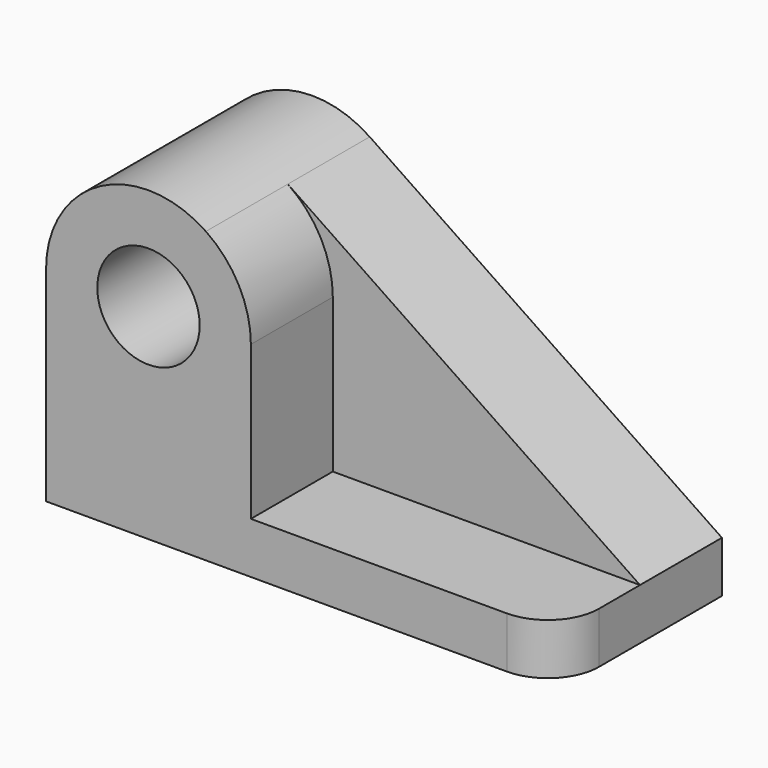
from build123d import *

# Parameters (mm, degrees)
F0_R     = 12.7
F1_DEPTH = 25.4
F2_R     = 12.7
F3_DEPTH = 25.4
F4_R     = 12.7


with BuildPart() as f1:
    # F0 (on Front) → F1 (new body)
    with BuildSketch(Plane.XZ):
        with BuildLine():
            Line((47.844176, -69.251424), (-39.51795, -10.117096))
            ThreePointArc((-39.51795, -10.117096), (-65.662083, -8.714825), (-79.155824, -31.151424))
            Line((-79.155824, -31.151424), (-79.155824, -81.951424))
            Line((-79.155824, -81.951424), (47.844176, -81.951424))
            Line((47.844176, -81.951424), (47.844176, -69.251424))
        make_face()
        with Locations((-53.755824, -31.151424)):
            Circle(F0_R, mode=Mode.SUBTRACT)
    extrude(amount=F1_DEPTH)

    # F2 (on face) → F3 (join)
    with BuildSketch(Plane.XZ.offset(25.4)):
        with BuildLine():
            Line((-28.355824, -69.251424), (-28.355824, -31.151424))
            ThreePointArc((-28.355824, -31.151424), (-31.319224, -19.245165), (-39.51795, -10.117096))
            ThreePointArc((-39.51795, -10.117096), (-65.662083, -8.714825), (-79.155824, -31.151424))
            Line((-79.155824, -31.151424), (-79.155824, -69.251424))
            Line((-79.155824, -69.251424), (-79.155824, -81.951424))
            Line((-79.155824, -81.951424), (47.844176, -81.951424))
            Line((47.844176, -81.951424), (47.844176, -69.251424))
            Line((47.844176, -69.251424), (-28.355824, -69.251424))
        make_face()
        with Locations((-53.755824, -31.151424)):
            Circle(F2_R, mode=Mode.SUBTRACT)
    extrude(amount=F3_DEPTH)

    # F4
    f4_edges = [f1.edges().sort_by_distance(p)[0] for p in [
        (47.844176, -50.8, -75.601424),
    ]]
    fillet(f4_edges, radius=F4_R)


solid = f1.part
